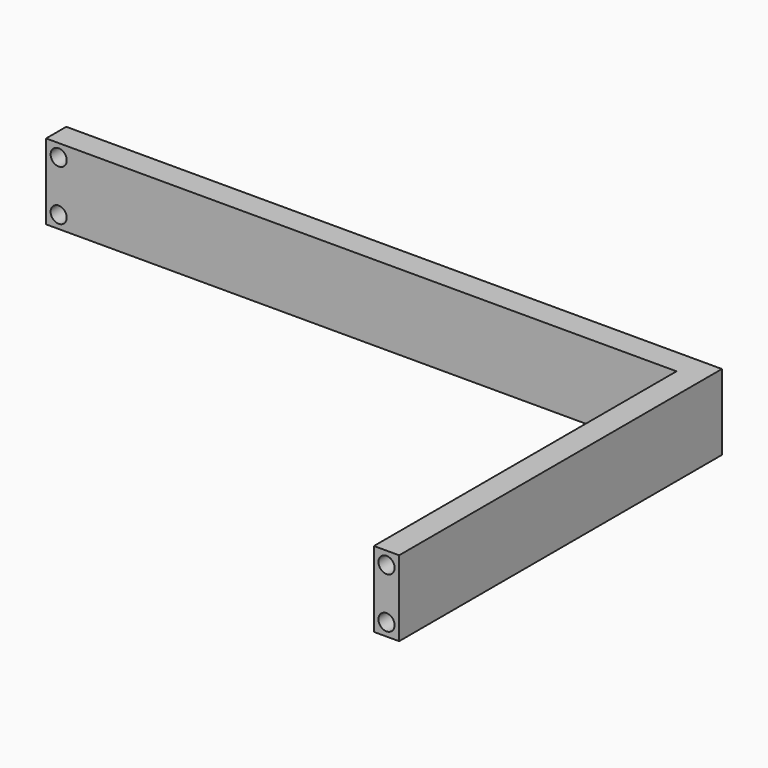
from build123d import *

# Parameters (mm, degrees)
F0_W     = 158.75
F0_H     = 6.35
F0_W_2   = 6.35
F0_H_2   = 95.25
F1_DEPTH = 19.05
F2_R     = 2.032
F3_DEPTH = 15.24
F4_R     = 2.032
F5_DEPTH = 25.4


with BuildPart() as f1:
    # F0 (on Top) → F1 (new body)
    with BuildSketch(Plane.XY):
        with Locations((-7.746776, 11.7905)):
            Rectangle(F0_W, F0_H)
        with Locations((74.803224, 11.7905)):
            Rectangle(F0_W_2, F0_H)
        with Locations((74.803224, -39.0095)):
            Rectangle(F0_W_2, F0_H_2)
    extrude(amount=F1_DEPTH)

    # F2 (on face) → F3 (cut)
    with BuildSketch(Plane.XZ.offset(86.6345)):
        with Locations((74.803224, 15.875)):
            Circle(F2_R)
        with Locations((74.803224, 3.175)):
            Circle(F2_R)
    extrude(amount=-F3_DEPTH, mode=Mode.SUBTRACT)

    # F4 (on face) → F5 (cut)
    with BuildSketch(Plane(origin=(0, 14.9655, 0), x_dir=(-1, 0, 0), z_dir=(0, 1, 0))):
        with Locations((83.946776, 15.875)):
            Circle(F4_R)
        with Locations((83.946776, 3.175)):
            Circle(F4_R)
    extrude(amount=-F5_DEPTH, mode=Mode.SUBTRACT)


solid = f1.part
